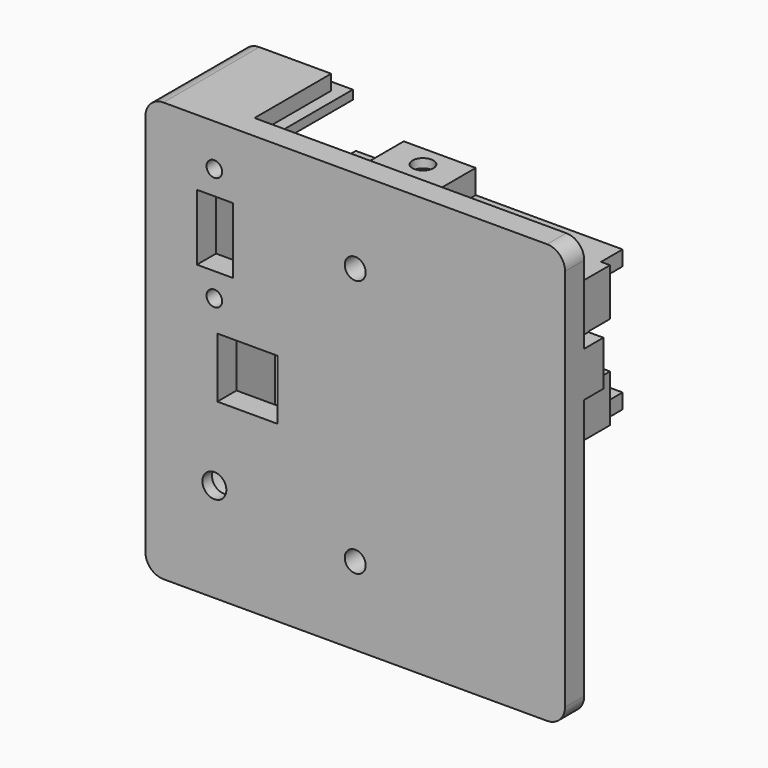
from build123d import *

# Parameters (mm, degrees)
BOX071_W               = 10
BOX071_H               = 4.5
BOX071_DEPTH           = 7.7
BOX070_W               = 1.5
BOX070_H               = 6.5
BOX070_DEPTH           = 23.5
BOX072_W               = 2.5
BOX072_H               = 4
BOX072_DEPTH           = 7.5
CYLINDER040_R          = 1.3
CYLINDER040_DEPTH      = 10
CYLINDER040_ROLL_ANGLE = 90
CYLINDER039_R          = 1.3
CYLINDER039_DEPTH      = 10
CYLINDER039_ROLL_ANGLE = 90
BOX068_W               = 11
BOX068_H               = 10
BOX068_DEPTH           = 6
BOX068_PITCH_ANGLE     = 90
CYLINDER037_R          = 6.25
CYLINDER037_DEPTH      = 10
CYLINDER037_ROLL_ANGLE = 90
CYLINDER038_R          = 2
CYLINDER038_DEPTH      = 10
CYLINDER038_ROLL_ANGLE = 90
BOX059_W               = 2.5
BOX059_H               = 13
BOX059_DEPTH           = 23.5
BOX060_W               = 44
BOX060_H               = 13
BOX060_DEPTH           = 2.5
BOX061_W               = 7.5
BOX061_H               = 13
BOX061_DEPTH           = 2.5
BOX062_W               = 24.5
BOX062_H               = 13
BOX062_DEPTH           = 2.5
BOX056_W               = 10
BOX056_H               = 20
BOX056_DEPTH           = 10
CYLINDER032_R          = 1.75
CYLINDER032_DEPTH      = 10
BOX055_W               = 6.5
BOX055_H               = 10
BOX055_DEPTH           = 3
PAD011_DEPTH           = 3
BOX053_W               = 12
BOX053_H               = 13
BOX053_DEPTH           = 6.5
CUT068_PLACEMENT_ANGLE = 180
CYLINDER019_R          = 1.75
CYLINDER019_DEPTH      = 20
CYLINDER019_ROLL_ANGLE = 90
CYLINDER020_R          = 1.75
CYLINDER020_DEPTH      = 20
CYLINDER020_ROLL_ANGLE = 90
BOX019_W               = 2.5
BOX019_H               = 2
BOX019_DEPTH           = 12.5
BOX019_PITCH_ANGLE     = 90
BOX018_W               = 2
BOX018_H               = 2.5
BOX018_DEPTH           = 18
BOX018_ROLL_ANGLE      = 90
BOX017_W               = 2.5
BOX017_H               = 2
BOX017_DEPTH           = 50.5
BOX017_PITCH_ANGLE     = 90
BOX016_W               = 2.5
BOX016_H               = 2
BOX016_DEPTH           = 12.5
BOX016_PITCH_ANGLE     = 90
BOX015_W               = 2
BOX015_H               = 2.5
BOX015_DEPTH           = 18
BOX015_ROLL_ANGLE      = 90
BOX014_W               = 2.5
BOX014_H               = 2
BOX014_DEPTH           = 50.5
BOX014_PITCH_ANGLE     = 90
BOX013_W               = 2.5
BOX013_H               = 2
BOX013_DEPTH           = 70
BOX012_W               = 2.5
BOX012_H               = 2
BOX012_DEPTH           = 70
BOX011_W               = 62
BOX011_H               = 62
BOX011_DEPTH           = 25
BOX011_ROLL_ANGLE      = 90
PAD004_DEPTH           = 70
POCKET002003_DEPTH     = 3
FILLET001_R            = 3
PAD007_DEPTH           = 3
BOX039_W               = 10
BOX039_H               = 3
BOX039_DEPTH           = 15
BOX067_W               = 15
BOX067_H               = 5
BOX067_DEPTH           = 15


with BuildPart() as cube070:
    # Box071 → Box071 (new body)
    with BuildSketch(Plane(origin=(60, 8, 46.4), x_dir=(1, 0, 0), z_dir=(0, 0, 1))):
        with Locations((5, 2.25)):
            Rectangle(BOX071_W, BOX071_H)
    extrude(amount=BOX071_DEPTH)


with BuildPart() as cut084:
    # Box070 → Box070 (new body)
    with BuildSketch(Plane(origin=(66, 6, 38.5), x_dir=(1, 0, 0), z_dir=(0, 0, 1))):
        with Locations((0.75, 3.25)):
            Rectangle(BOX070_W, BOX070_H)
    extrude(amount=BOX070_DEPTH)

    # Cut084: cut Cube070
    add(cube070.part, mode=Mode.SUBTRACT)


with BuildPart() as cube071:
    # Box072 → Box072 (new body)
    with BuildSketch(Plane(origin=(67.5, 4, 46.5), x_dir=(1, 0, 0), z_dir=(0, 0, 1))):
        with Locations((1.25, 2)):
            Rectangle(BOX072_W, BOX072_H)
    extrude(amount=BOX072_DEPTH)


with BuildPart() as cylinder072:
    # Cylinder040 → Cylinder040 (new body)
    with BuildSketch(Plane.XY):
        Circle(CYLINDER040_R)
    extrude(amount=CYLINDER040_DEPTH)


with BuildPart() as cylinder072_1:
    # Cylinder040 roll: moved
    add(cylinder072.part.rotate(Axis((0, 0, 0), (1, 0, 0)), CYLINDER040_ROLL_ANGLE))


with BuildPart() as cylinder072_2:
    # Cylinder040 placement: moved
    add(cylinder072_1.part.moved(Location((11.5, 7, 44))))


with BuildPart() as cylinder071:
    # Cylinder039 → Cylinder039 (new body)
    with BuildSketch(Plane.XY):
        Circle(CYLINDER039_R)
    extrude(amount=CYLINDER039_DEPTH)


with BuildPart() as cylinder071_1:
    # Cylinder039 roll: moved
    add(cylinder071.part.rotate(Axis((0, 0, 0), (1, 0, 0)), CYLINDER039_ROLL_ANGLE))


with BuildPart() as cylinder071_2:
    # Cylinder039 placement: moved
    add(cylinder071_1.part.moved(Location((11.5, 7, 63))))


with BuildPart() as cube067:
    # Box068 → Box068 (new body)
    with BuildSketch(Plane.XY):
        with Locations((5.5, 5)):
            Rectangle(BOX068_W, BOX068_H)
    extrude(amount=BOX068_DEPTH)


with BuildPart() as cube067_1:
    # Box068 pitch: moved
    add(cube067.part.rotate(Axis((0, 0, 0), (0, 1, 0)), BOX068_PITCH_ANGLE))


with BuildPart() as cube067_2:
    # Box068 placement: moved
    add(cube067_1.part.moved(Location((8.59, -3, 59))))


with BuildPart() as cylinder069:
    # Cylinder037 → Cylinder037 (new body)
    with BuildSketch(Plane.XY):
        Circle(CYLINDER037_R)
    extrude(amount=CYLINDER037_DEPTH)


with BuildPart() as cylinder069_1:
    # Cylinder037 roll: moved
    add(cylinder069.part.rotate(Axis((0, 0, 0), (1, 0, 0)), CYLINDER037_ROLL_ANGLE))


with BuildPart() as cylinder069_2:
    # Cylinder037 placement: moved
    add(cylinder069_1.part.moved(Location((11.5, 12, 16.5))))


with BuildPart() as cylinder070:
    # Cylinder038 → Cylinder038 (new body)
    with BuildSketch(Plane.XY):
        Circle(CYLINDER038_R)
    extrude(amount=CYLINDER038_DEPTH)


with BuildPart() as cylinder070_1:
    # Cylinder038 roll: moved
    add(cylinder070.part.rotate(Axis((0, 0, 0), (1, 0, 0)), CYLINDER038_ROLL_ANGLE))


with BuildPart() as cylinder070_2:
    # Cylinder038 placement: moved
    add(cylinder070_1.part.moved(Location((11.5, 7, 16.5))))


with BuildPart() as cube058:
    # Box059 → Box059 (new body)
    with BuildSketch(Plane(origin=(21.5, 4, 38.5), x_dir=(1, 0, 0), z_dir=(0, 0, 1))):
        with Locations((1.25, 6.5)):
            Rectangle(BOX059_W, BOX059_H)
    extrude(amount=BOX059_DEPTH)


with BuildPart() as cube059:
    # Box060 → Box060 (new body)
    with BuildSketch(Plane(origin=(22, 4, 38.5), x_dir=(1, 0, 0), z_dir=(0, 0, 1))):
        with Locations((22, 6.5)):
            Rectangle(BOX060_W, BOX060_H)
    extrude(amount=BOX060_DEPTH)


with BuildPart() as cube060:
    # Box061 → Box061 (new body)
    with BuildSketch(Plane(origin=(22, 4, 59.5), x_dir=(1, 0, 0), z_dir=(0, 0, 1))):
        with Locations((3.75, 6.5)):
            Rectangle(BOX061_W, BOX061_H)
    extrude(amount=BOX061_DEPTH)


with BuildPart() as cube061:
    # Box062 → Box062 (new body)
    with BuildSketch(Plane(origin=(41.5, 4, 59.5), x_dir=(1, 0, 0), z_dir=(0, 0, 1))):
        with Locations((12.25, 6.5)):
            Rectangle(BOX062_W, BOX062_H)
    extrude(amount=BOX062_DEPTH)


with BuildPart() as cube055:
    # Box056 → Box056 (new body)
    with BuildSketch(Plane(origin=(12, -7, 29), x_dir=(1, 0, 0), z_dir=(0, 0, 1))):
        with Locations((5, 10)):
            Rectangle(BOX056_W, BOX056_H)
    extrude(amount=BOX056_DEPTH)


with BuildPart() as cylinder064:
    # Cylinder032 → Cylinder032 (new body)
    with BuildSketch(Plane(origin=(35.5, 13.5, 59), x_dir=(1, 0, 0), z_dir=(0, 0, 1))):
        Circle(CYLINDER032_R)
    extrude(amount=CYLINDER032_DEPTH)


with BuildPart() as cube054:
    # Box055 → Box055 (new body)
    with BuildSketch(Plane(origin=(32.2, 13.5, 61.5), x_dir=(1, 0, 0), z_dir=(0, 0, 1))):
        with Locations((3.25, 5)):
            Rectangle(BOX055_W, BOX055_H)
    extrude(amount=BOX055_DEPTH)


with BuildPart() as pad011:
    # Sketch017 → Pad011 (new body)
    with BuildSketch(Plane(origin=(-5.5, 2, 61.5), x_dir=(1, 0, 0), z_dir=(0, 0, 1))):
        Polygon((42.571507, 14.317564), (39.28061, 14.317564), (37.635162, 11.467564), (39.28061, 8.617564), (42.571507, 8.617564), (44.216955, 11.467564), align=None)
    extrude(amount=PAD011_DEPTH)


with BuildPart() as cut067:
    # Box053 → Box053 (new body)
    with BuildSketch(Plane(origin=(29.5, 4, 59.5), x_dir=(1, 0, 0), z_dir=(0, 0, 1))):
        with Locations((6, 6.5)):
            Rectangle(BOX053_W, BOX053_H)
    extrude(amount=BOX053_DEPTH)

    # Cut066: cut Pad011
    add(pad011.part, mode=Mode.SUBTRACT)

    # Cut067: cut Cube054
    add(cube054.part, mode=Mode.SUBTRACT)


with BuildPart() as cut068:
    # Cut068 base: copy of Cut067
    add(cut067.part)

    # Cut068: cut Cylinder064
    add(cylinder064.part, mode=Mode.SUBTRACT)


with BuildPart() as cut068_1:
    # Cut068 placement: moved
    add(cut068.part.moved(Location((60, 0, 70))).rotate(Axis((60, 0, 70), (0, 1, 0)), CUT068_PLACEMENT_ANGLE))


with BuildPart() as cut069:
    # Cut069 base: copy of Cut067
    add(cut067.part)

    # Cut069: cut Cylinder064
    add(cylinder064.part, mode=Mode.SUBTRACT)


with BuildPart() as cylinder054:
    # Cylinder019 → Cylinder019 (new body)
    with BuildSketch(Plane.XY):
        Circle(CYLINDER019_R)
    extrude(amount=CYLINDER019_DEPTH)


with BuildPart() as cylinder054_1:
    # Cylinder019 roll: moved
    add(cylinder054.part.rotate(Axis((0, 0, 0), (1, 0, 0)), CYLINDER019_ROLL_ANGLE))


with BuildPart() as cylinder054_2:
    # Cylinder019 placement: moved
    add(cylinder054_1.part.moved(Location((35, 10, 56))))


with BuildPart() as cylinder055:
    # Cylinder020 → Cylinder020 (new body)
    with BuildSketch(Plane.XY):
        Circle(CYLINDER020_R)
    extrude(amount=CYLINDER020_DEPTH)


with BuildPart() as cylinder055_1:
    # Cylinder020 roll: moved
    add(cylinder055.part.rotate(Axis((0, 0, 0), (1, 0, 0)), CYLINDER020_ROLL_ANGLE))


with BuildPart() as cylinder055_2:
    # Cylinder020 placement: moved
    add(cylinder055_1.part.moved(Location((35, 10, 13))))


with BuildPart() as cube019:
    # Box019 → Box019 (new body)
    with BuildSketch(Plane.XY):
        with Locations((1.25, 1)):
            Rectangle(BOX019_W, BOX019_H)
    extrude(amount=BOX019_DEPTH)


with BuildPart() as cube019_1:
    # Box019 pitch: moved
    add(cube019.part.rotate(Axis((0, 0, 0), (0, 1, 0)), BOX019_PITCH_ANGLE))


with BuildPart() as cube019_2:
    # Box019 placement: moved
    add(cube019_1.part.moved(Location((2.5, 20, 2.5))))


with BuildPart() as cube018:
    # Box018 → Box018 (new body)
    with BuildSketch(Plane.XY):
        with Locations((1, 1.25)):
            Rectangle(BOX018_W, BOX018_H)
    extrude(amount=BOX018_DEPTH)


with BuildPart() as cube018_1:
    # Box018 roll: moved
    add(cube018.part.rotate(Axis((0, 0, 0), (1, 0, 0)), BOX018_ROLL_ANGLE))


with BuildPart() as cube018_2:
    # Box018 placement: moved
    add(cube018_1.part.moved(Location((15, 22, 0))))


with BuildPart() as cube017:
    # Box017 → Box017 (new body)
    with BuildSketch(Plane.XY):
        with Locations((1.25, 1)):
            Rectangle(BOX017_W, BOX017_H)
    extrude(amount=BOX017_DEPTH)


with BuildPart() as cube017_1:
    # Box017 pitch: moved
    add(cube017.part.rotate(Axis((0, 0, 0), (0, 1, 0)), BOX017_PITCH_ANGLE))


with BuildPart() as cube017_2:
    # Box017 placement: moved
    add(cube017_1.part.moved(Location((17, 4, 2.5))))


with BuildPart() as cube016:
    # Box016 → Box016 (new body)
    with BuildSketch(Plane.XY):
        with Locations((1.25, 1)):
            Rectangle(BOX016_W, BOX016_H)
    extrude(amount=BOX016_DEPTH)


with BuildPart() as cube016_1:
    # Box016 pitch: moved
    add(cube016.part.rotate(Axis((0, 0, 0), (0, 1, 0)), BOX016_PITCH_ANGLE))


with BuildPart() as cube016_2:
    # Box016 placement: moved
    add(cube016_1.part.moved(Location((2.5, 20, 70))))


with BuildPart() as cube015:
    # Box015 → Box015 (new body)
    with BuildSketch(Plane.XY):
        with Locations((1, 1.25)):
            Rectangle(BOX015_W, BOX015_H)
    extrude(amount=BOX015_DEPTH)


with BuildPart() as cube015_1:
    # Box015 roll: moved
    add(cube015.part.rotate(Axis((0, 0, 0), (1, 0, 0)), BOX015_ROLL_ANGLE))


with BuildPart() as cube015_2:
    # Box015 placement: moved
    add(cube015_1.part.moved(Location((15, 22, 67.5))))


with BuildPart() as cube014:
    # Box014 → Box014 (new body)
    with BuildSketch(Plane.XY):
        with Locations((1.25, 1)):
            Rectangle(BOX014_W, BOX014_H)
    extrude(amount=BOX014_DEPTH)


with BuildPart() as cube014_1:
    # Box014 pitch: moved
    add(cube014.part.rotate(Axis((0, 0, 0), (0, 1, 0)), BOX014_PITCH_ANGLE))


with BuildPart() as cube014_2:
    # Box014 placement: moved
    add(cube014_1.part.moved(Location((17, 4, 70))))


with BuildPart() as cube013:
    # Box013 → Box013 (new body)
    with BuildSketch(Plane(origin=(67.5, 4, 0), x_dir=(1, 0, 0), z_dir=(0, 0, 1))):
        with Locations((1.25, 1)):
            Rectangle(BOX013_W, BOX013_H)
    extrude(amount=BOX013_DEPTH)


with BuildPart() as cube012:
    # Box012 → Box012 (new body)
    with BuildSketch(Plane(origin=(0, 20, 0), x_dir=(1, 0, 0), z_dir=(0, 0, 1))):
        with Locations((1.25, 1)):
            Rectangle(BOX012_W, BOX012_H)
    extrude(amount=BOX012_DEPTH)


with BuildPart() as cube011:
    # Box011 → Box011 (new body)
    with BuildSketch(Plane.XY):
        with Locations((31, 31)):
            Rectangle(BOX011_W, BOX011_H)
    extrude(amount=BOX011_DEPTH)


with BuildPart() as cube011_1:
    # Box011 roll: moved
    add(cube011.part.rotate(Axis((0, 0, 0), (1, 0, 0)), BOX011_ROLL_ANGLE))


with BuildPart() as cube011_2:
    # Box011 placement: moved
    add(cube011_1.part.moved(Location((4, 29, 4))))


with BuildPart() as fillet001:
    # Sketch007 → Pad004 (new body)
    with BuildSketch(Plane.XY):
        Polygon((0, 22), (0, 0), (70, 0), (70, 6), (17, 6), (17, 22), align=None)
    extrude(amount=PAD004_DEPTH)

    # Cut015: cut Cube011
    add(cube011_2.part, mode=Mode.SUBTRACT)

    # Cut016: cut Cube012
    add(cube012.part, mode=Mode.SUBTRACT)

    # Cut017: cut Cube013
    add(cube013.part, mode=Mode.SUBTRACT)

    # Cut018: cut Cube014
    add(cube014_2.part, mode=Mode.SUBTRACT)

    # Cut019: cut Cube015
    add(cube015_2.part, mode=Mode.SUBTRACT)

    # Cut020: cut Cube016
    add(cube016_2.part, mode=Mode.SUBTRACT)

    # Cut021: cut Cube017
    add(cube017_2.part, mode=Mode.SUBTRACT)

    # Cut022: cut Cube018
    add(cube018_2.part, mode=Mode.SUBTRACT)

    # Cut023: cut Cube019
    add(cube019_2.part, mode=Mode.SUBTRACT)

    # Sketch008 → Pocket002003 (cut)
    with BuildSketch(Plane(origin=(0, 0, 0), x_dir=(0, -1, 0), z_dir=(-1, 0, 0))):
        with BuildLine():
            ThreePointArc((-17, 17.5), (-3.799725, 35), (-17, 52.5))
            Line((-17, 47.5), (-17, 52.5))
            ThreePointArc((-17, 22.5), (-8.537088, 35), (-17, 47.5))
            Line((-17, 17.5), (-17, 22.5))
        make_face()
    extrude(amount=-POCKET002003_DEPTH, mode=Mode.SUBTRACT)

    # Fillet001
    fillet001_edges = [fillet001.edges().sort_by_distance(p)[0] for p in [
        (0, 10, 0),
        (0, 10, 70),
        (70, 2, 0),
        (70, 2, 70),
    ]]
    fillet(fillet001_edges, radius=FILLET001_R)


with BuildPart() as pad007:
    # Sketch013 → Pad007 (new body)
    with BuildSketch(Plane(origin=(-6, 7, 1.5), x_dir=(1, 0, 0), z_dir=(0, -1, 0))):
        Polygon((42.571507, 14.317564), (39.28061, 14.317564), (37.635162, 11.467564), (39.28061, 8.617564), (42.571507, 8.617564), (44.216955, 11.467564), align=None)
    extrude(amount=PAD007_DEPTH)


with BuildPart() as cube038:
    # Box039 → Box039 (new body)
    with BuildSketch(Plane(origin=(30, 4, 5), x_dir=(1, 0, 0), z_dir=(0, 0, 1))):
        with Locations((5, 1.5)):
            Rectangle(BOX039_W, BOX039_H)
    extrude(amount=BOX039_DEPTH)


with BuildPart() as cut054:
    # Cut054 base: copy of Cube038
    add(cube038.part)

    # Cut054: cut Pad007
    add(pad007.part, mode=Mode.SUBTRACT)


with BuildPart() as cut079:
    # Cut053 base: copy of Cube038
    add(cube038.part)

    # Cut053: cut Pad007
    add(pad007.part, mode=Mode.SUBTRACT)


with BuildPart() as cut079_1:
    # Cut053 placement: moved
    add(cut079.part.moved(Location((0, 0, 43))))

    # Fusion008: union Fillet001, Cut054
    add(fillet001.part)
    add(cut054.part)

    # Cut055: cut Cylinder055
    add(cylinder055_2.part, mode=Mode.SUBTRACT)

    # Cut056: cut Cylinder054
    add(cylinder054_2.part, mode=Mode.SUBTRACT)

    # Fusion016: union Cut068, Cut069
    add(cut068_1.part)
    add(cut069.part)

    # Cut074: cut Cube055
    add(cube055.part, mode=Mode.SUBTRACT)

    # Fusion018: union Cube058, Cube059, Cube060, Cube061
    add(cube058.part)
    add(cube059.part)
    add(cube060.part)
    add(cube061.part)

    # Cut079: cut Cylinder070
    add(cylinder070_2.part, mode=Mode.SUBTRACT)


with BuildPart() as cabeza:
    # Box067 → Box067 (new body)
    with BuildSketch(Plane(origin=(4, 4, 9), x_dir=(1, 0, 0), z_dir=(0, 0, 1))):
        with Locations((7.5, 2.5)):
            Rectangle(BOX067_W, BOX067_H)
    extrude(amount=BOX067_DEPTH)

    # Fusion021: union Cut079
    add(cut079_1.part)

    # Cut080: cut Cylinder069
    add(cylinder069_2.part, mode=Mode.SUBTRACT)

    # Cut081: cut Cube067
    add(cube067_2.part, mode=Mode.SUBTRACT)

    # Cut082: cut Cylinder071
    add(cylinder071_2.part, mode=Mode.SUBTRACT)

    # Cut083: cut Cylinder072
    add(cylinder072_2.part, mode=Mode.SUBTRACT)

    # Fusion022: union Cut084, Cube071
    add(cut084.part)
    add(cube071.part)


solid = cabeza.part
